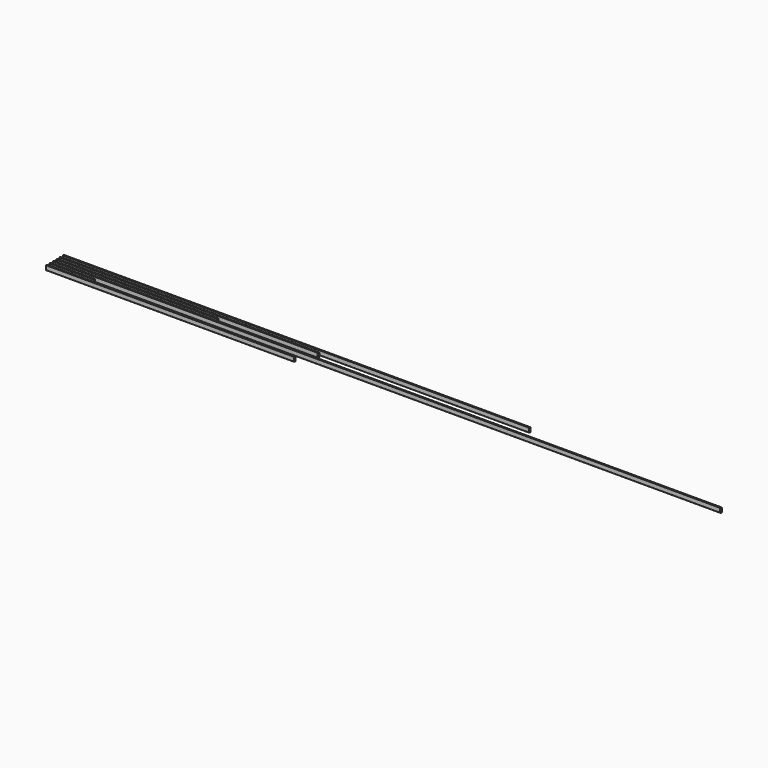
from build123d import *

# Parameters (mm, degrees)
F1_DEPTH = 5531
F2_DEPTH = 3063
F3_DEPTH = 1908
F4_DEPTH = 7920
F5_DEPTH = 520
F6_DEPTH = 2940


with BuildPart() as f1:
    # F0 (on Right) → F1 (new body)
    with BuildSketch(Plane.YZ):
        with BuildLine():
            ThreePointArc((-5.368081, 1.953822), (-1.705694, 2.435984), (0, 5.712592))
            Line((0, 5.712592), (0, 53.099914))
            ThreePointArc((0, 53.099914), (-0.723392, 55.39422), (-2.631919, 56.858684))
            Line((-2.631919, 56.858684), (-19.631919, 63.046178))
            ThreePointArc((-19.631919, 63.046178), (-23.294306, 62.564016), (-25, 59.287408))
            Line((-25, 59.287408), (-25, 11.900086))
            ThreePointArc((-25, 11.900086), (-24.276608, 9.60578), (-22.368081, 8.141316))
            Line((-22.368081, 8.141316), (-5.368081, 1.953822))
        make_face()
    extrude(amount=F1_DEPTH)


with BuildPart() as f2:
    # F0 (on Right) → F2 (new body)
    with BuildSketch(Plane.YZ):
        with BuildLine():
            ThreePointArc((-69.631919, 63.046178), (-73.294306, 62.564016), (-75, 59.287408))
            Line((-75, 59.287408), (-75, 11.900086))
            ThreePointArc((-75, 11.900086), (-74.276608, 9.60578), (-72.368081, 8.141316))
            Line((-72.368081, 8.141316), (-55.368081, 1.953822))
            ThreePointArc((-55.368081, 1.953822), (-51.705694, 2.435984), (-50, 5.712592))
            Line((-50, 5.712592), (-50, 53.099914))
            ThreePointArc((-50, 53.099914), (-50.723392, 55.39422), (-52.631919, 56.858684))
            Line((-52.631919, 56.858684), (-69.631919, 63.046178))
        make_face()
    extrude(amount=F2_DEPTH)


with BuildPart() as f3:
    # F0 (on Right) → F3 (new body)
    with BuildSketch(Plane.YZ):
        with BuildLine():
            ThreePointArc((-119.631919, 63.046178), (-123.294306, 62.564016), (-125, 59.287408))
            Line((-125, 59.287408), (-125, 11.900086))
            ThreePointArc((-125, 11.900086), (-124.276608, 9.60578), (-122.368081, 8.141316))
            Line((-122.368081, 8.141316), (-105.368081, 1.953822))
            ThreePointArc((-105.368081, 1.953822), (-101.705694, 2.435984), (-100, 5.712592))
            Line((-100, 5.712592), (-100, 53.099914))
            ThreePointArc((-100, 53.099914), (-100.723392, 55.39422), (-102.631919, 56.858684))
            Line((-102.631919, 56.858684), (-119.631919, 63.046178))
        make_face()
    extrude(amount=F3_DEPTH)


with BuildPart() as f4:
    # F0 (on Right) → F4 (new body)
    with BuildSketch(Plane.YZ):
        with BuildLine():
            ThreePointArc((-169.631919, 63.046178), (-173.294306, 62.564016), (-175, 59.287408))
            Line((-175, 59.287408), (-175, 11.900086))
            ThreePointArc((-175, 11.900086), (-174.276608, 9.60578), (-172.368081, 8.141316))
            Line((-172.368081, 8.141316), (-155.368081, 1.953822))
            ThreePointArc((-155.368081, 1.953822), (-151.705694, 2.435984), (-150, 5.712592))
            Line((-150, 5.712592), (-150, 53.099914))
            ThreePointArc((-150, 53.099914), (-150.723392, 55.39422), (-152.631919, 56.858684))
            Line((-152.631919, 56.858684), (-169.631919, 63.046178))
        make_face()
    extrude(amount=F4_DEPTH)


with BuildPart() as f5:
    # F0 (on Right) → F5 (new body)
    with BuildSketch(Plane.YZ):
        with BuildLine():
            ThreePointArc((-219.631919, 63.046178), (-223.294306, 62.564016), (-225, 59.287408))
            Line((-225, 59.287408), (-225, 11.900086))
            ThreePointArc((-225, 11.900086), (-224.276608, 9.60578), (-222.368081, 8.141316))
            Line((-222.368081, 8.141316), (-205.368081, 1.953822))
            ThreePointArc((-205.368081, 1.953822), (-201.705694, 2.435984), (-200, 5.712592))
            Line((-200, 5.712592), (-200, 53.099914))
            ThreePointArc((-200, 53.099914), (-200.723392, 55.39422), (-202.631919, 56.858684))
            Line((-202.631919, 56.858684), (-219.631919, 63.046178))
        make_face()
    extrude(amount=F5_DEPTH)


with BuildPart() as f6:
    # F0 (on Right) → F6 (new body)
    with BuildSketch(Plane.YZ):
        with BuildLine():
            ThreePointArc((-269.631919, 63.046178), (-273.294306, 62.564016), (-275, 59.287408))
            Line((-275, 59.287408), (-275, 11.900086))
            ThreePointArc((-275, 11.900086), (-274.276608, 9.60578), (-272.368081, 8.141316))
            Line((-272.368081, 8.141316), (-255.368081, 1.953822))
            ThreePointArc((-255.368081, 1.953822), (-251.705694, 2.435984), (-250, 5.712592))
            Line((-250, 5.712592), (-250, 53.099914))
            ThreePointArc((-250, 53.099914), (-250.723392, 55.39422), (-252.631919, 56.858684))
            Line((-252.631919, 56.858684), (-269.631919, 63.046178))
        make_face()
    extrude(amount=F6_DEPTH)


solid = Compound([f1.part, f2.part, f3.part, f4.part, f5.part, f6.part])
